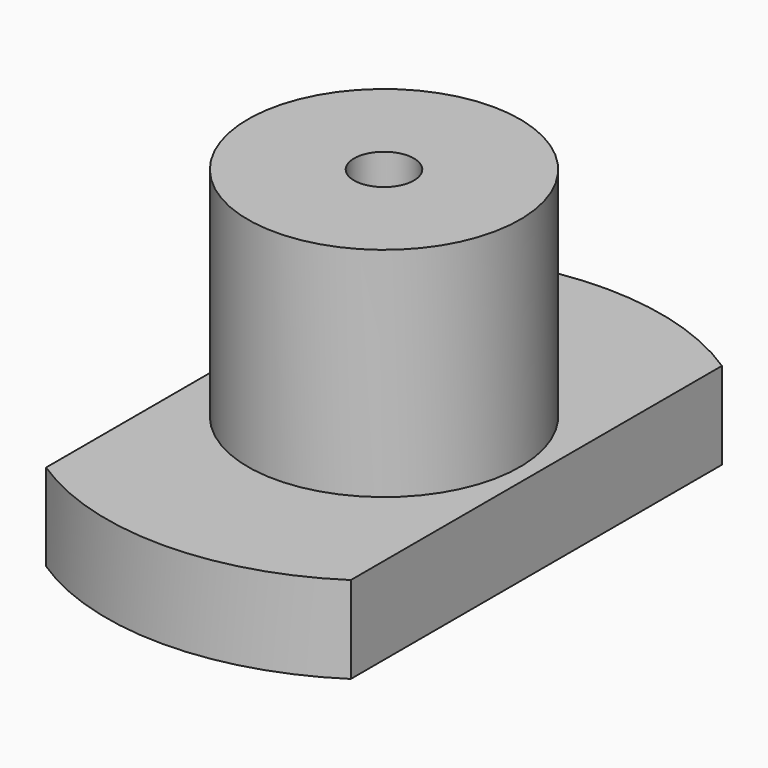
from build123d import *

# Parameters (mm, degrees)
SKETCH151_W     = 65
SKETCH151_H     = 65
SKETCH151_W_2   = 53.065996
SKETCH151_H_2   = 28
POCKET099_DEPTH = 28.001
POCKET100_DEPTH = 18


with BuildPart() as part:
    # Sketch103 → Revolution002 (revolve)
    with BuildSketch(Plane.YZ):
        Polygon((2.75, 0), (12.5, 0), (12.5, -20), (25.5, -20), (25.5, -28), (2.75, -28), align=None)
    revolve(axis=Axis((0, 0, 0), (0, 0, 1)))

    # Sketch151 (on Face5 of Revolution002) → Pocket099 (cut, through all)
    with BuildSketch(Plane.YX.offset(28)):
        Rectangle(SKETCH151_W, SKETCH151_H)
        Rectangle(SKETCH151_W_2, SKETCH151_H_2, mode=Mode.SUBTRACT)
    extrude(amount=-POCKET099_DEPTH, mode=Mode.SUBTRACT)

    # Sketch142 (on Face5 of Revolution002) → Pocket100 (cut)
    with BuildSketch(Plane.YX.offset(28)):
        Polygon((4.2, 2.424871), (0, 4.849742), (-4.2, 2.424871), (-4.2, -2.424871), (0, -4.849742), (4.2, -2.424871), align=None)
    extrude(amount=-POCKET100_DEPTH, mode=Mode.SUBTRACT)


with BuildPart() as part_1:
    # Body022019 placement: moved
    add(part.part.moved(Location((0, 92, -72))))


solid = part_1.part
